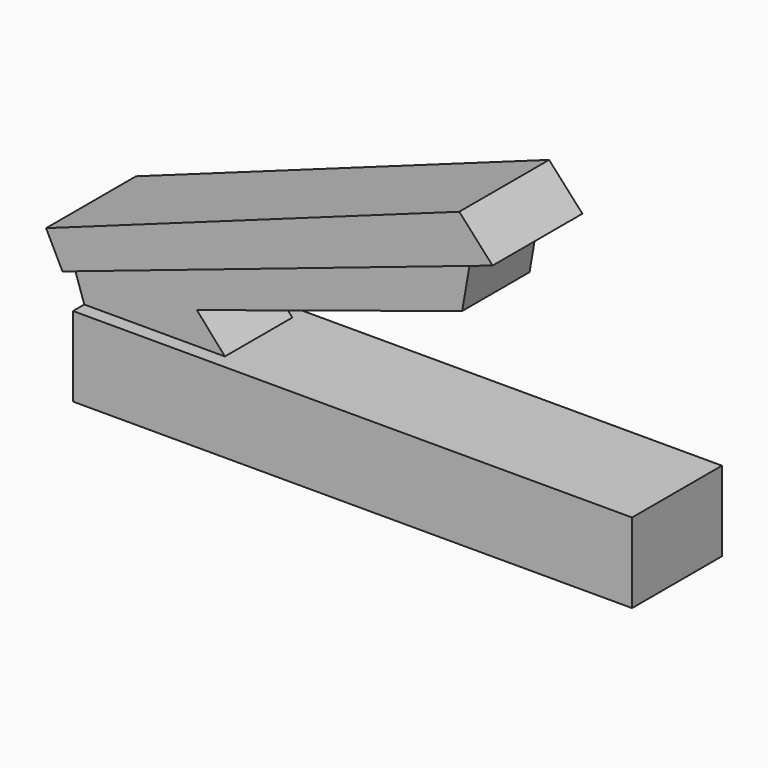
from build123d import *

# Parameters (mm, degrees)
F1_DEPTH = 12.7
F2_DEPTH = 9.525


with BuildPart() as f1:
    # F0 (on Front) → F1 (new body, symmetric)
    with BuildSketch(Plane.XZ):
        Polygon((-69.313474, 23.532353), (-65.60535, 16.116098), (-44.070892, 23.37845), (24.136069, 46.380794), (31.661715, 48.918769), (24.136069, 57.19075), align=None)
        Polygon((-31.408227, 9.021087), (-63.217446, 9.021087), (-63.217446, -9.021087), (63.217446, -9.021087), (63.217446, 9.021087), align=None)
    extrude(amount=F1_DEPTH, both=True)


with BuildPart() as f2:
    # F0 (on Front) → F2 (new body, symmetric)
    with BuildSketch(Plane.XZ):
        Polygon((-65.60535, 16.116098), (-63.217446, 9.021087), (-31.408227, 9.021087), (-37.73956, 16.199769), (-44.070892, 23.37845), align=None)
        Polygon((-44.070892, 23.37845), (-37.73956, 16.199769), (22.248769, 35.512462), (24.136069, 46.380794), align=None)
    extrude(amount=F2_DEPTH, both=True)


solid = Compound([f1.part, f2.part])
